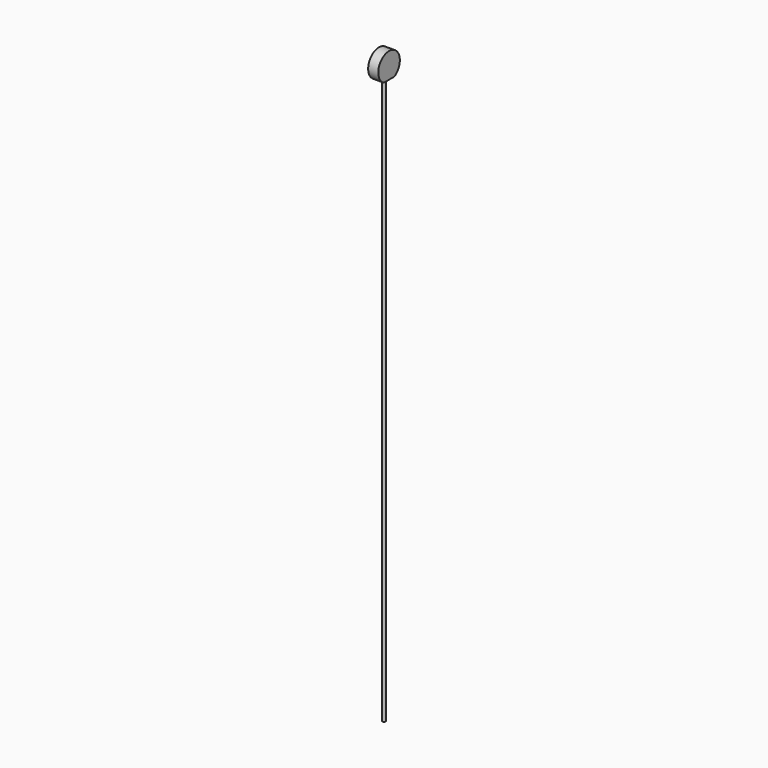
from build123d import *

# Parameters (mm, degrees)
F0_R     = 0.5
F1_DEPTH = 84
F3_DEPTH = 1.5


with BuildPart() as f1:
    # F0 (on Top) → F1 (new body, symmetric)
    with BuildSketch(Plane.XY):
        Circle(F0_R)
    extrude(amount=F1_DEPTH, both=True)

    # F2 (on Right) → F3 (join, symmetric)
    with BuildSketch(Plane.YZ):
        with BuildLine():
            ThreePointArc((1.9364916731, 84), (3.4457195687, 85.4684939937), (4, 87.5))
            ThreePointArc((4, 87.5), (-2.0315060063, 90.9457195687), (-1.9364916731, 84))
            Line((-1.9364916731, 84), (1.9364916731, 84))
        make_face()
    extrude(amount=F3_DEPTH, both=True)


solid = f1.part
